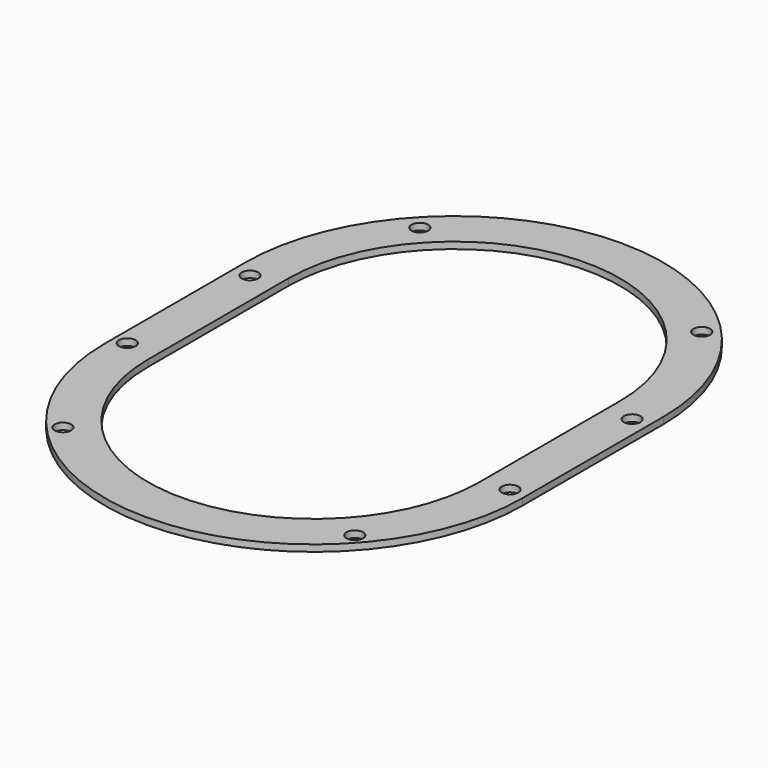
from build123d import *

# Parameters (mm, degrees)
F0_R     = 2.5
F1_DEPTH = 2


with BuildPart() as f1:
    # F0 (on Top) → F1 (new body)
    with BuildSketch(Plane.XY):
        with BuildLine():
            Line((-63, 53), (-63, 26.5))
            Line((-63, 26.5), (-63, 0))
            ThreePointArc((-63, 0), (0, -63), (63, 0))
            Line((63, 0), (63, 53))
            ThreePointArc((63, 53), (0, 116), (-63, 53))
        make_face()
        with Locations((-44, -39.5)):
            Circle(F0_R, mode=Mode.SUBTRACT)
        with Locations((-59, 3.5)):
            Circle(F0_R, mode=Mode.SUBTRACT)
        with Locations((44, -39.5)):
            Circle(F0_R, mode=Mode.SUBTRACT)
        with Locations((58, 1.5)):
            Circle(F0_R, mode=Mode.SUBTRACT)
        with Locations((-58, 48.5)):
            Circle(F0_R, mode=Mode.SUBTRACT)
        with Locations((-42, 92.5)):
            Circle(F0_R, mode=Mode.SUBTRACT)
        with BuildLine():
            Line((50, 53), (50, 0))
            ThreePointArc((50, 0), (0, -50), (-50, 0))
            Line((-50, 0), (-50, 26.5))
            Line((-50, 26.5), (-50, 53))
            ThreePointArc((-50, 53), (0, 103), (50, 53))
        make_face(mode=Mode.SUBTRACT)
        with Locations((58, 47.5)):
            Circle(F0_R, mode=Mode.SUBTRACT)
        with Locations((43, 92.5)):
            Circle(F0_R, mode=Mode.SUBTRACT)
        with BuildLine():
            ThreePointArc((-50, 0), (0, -50), (50, 0))
            Line((50, 0), (50, 53))
            ThreePointArc((50, 53), (0, 103), (-50, 53))
            Line((-50, 53), (-50, 26.5))
            Line((-50, 26.5), (-50, 0))
        make_face()
        with BuildLine():
            Line((-63, 53), (-63, 26.5))
            Line((-63, 26.5), (-63, 0))
            ThreePointArc((-63, 0), (0, -63), (63, 0))
            Line((63, 0), (63, 53))
            ThreePointArc((63, 53), (0, 116), (-63, 53))
        make_face()
        with Locations((-44, -39.5)):
            Circle(F0_R, mode=Mode.SUBTRACT)
        with Locations((-59, 3.5)):
            Circle(F0_R, mode=Mode.SUBTRACT)
        with Locations((44, -39.5)):
            Circle(F0_R, mode=Mode.SUBTRACT)
        with Locations((58, 1.5)):
            Circle(F0_R, mode=Mode.SUBTRACT)
        with Locations((-58, 48.5)):
            Circle(F0_R, mode=Mode.SUBTRACT)
        with Locations((-42, 92.5)):
            Circle(F0_R, mode=Mode.SUBTRACT)
        with BuildLine():
            Line((50, 53), (50, 0))
            ThreePointArc((50, 0), (0, -50), (-50, 0))
            Line((-50, 0), (-50, 26.5))
            Line((-50, 26.5), (-50, 53))
            ThreePointArc((-50, 53), (0, 103), (50, 53))
        make_face(mode=Mode.SUBTRACT)
        with Locations((58, 47.5)):
            Circle(F0_R, mode=Mode.SUBTRACT)
        with Locations((43, 92.5)):
            Circle(F0_R, mode=Mode.SUBTRACT)
    extrude(amount=F1_DEPTH)


solid = f1.part
